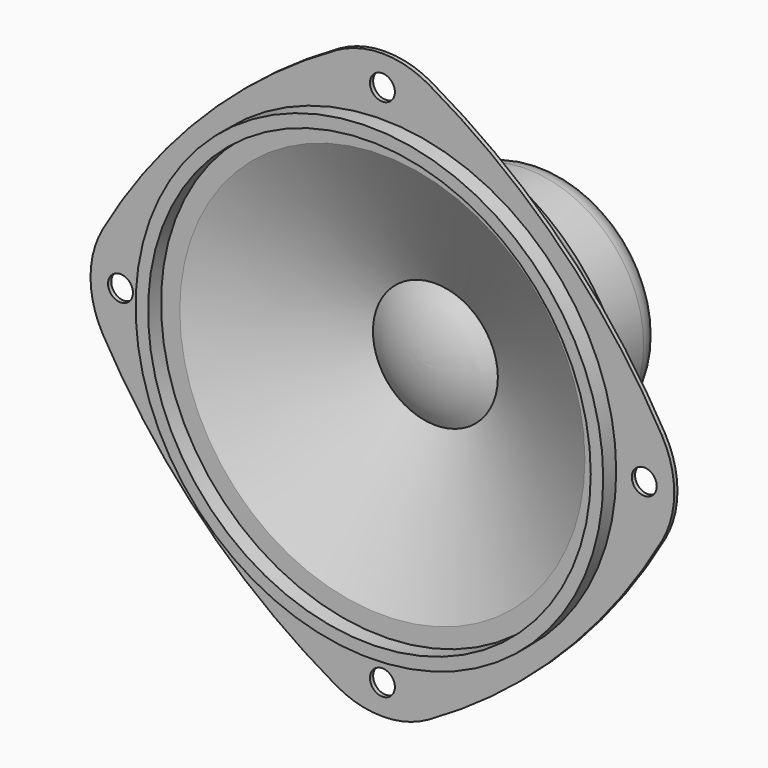
from build123d import *

# Parameters (mm, degrees)
F2_R     = 4
F3_R     = 1
F4_R     = 2
F5_DEPTH = 25


with BuildPart() as f1:
    # F0 (on Top) → F1 (revolve)
    with BuildSketch(Plane.XY):
        with BuildLine():
            Line((37.5, -2.6), (37.5, 0))
            Line((37.5, 0), (46.8, 0))
            Line((46.8, 0), (46.8, 0.65))
            Line((46.8, 0.65), (38.4, 0.65))
            Line((38.4, 0.65), (38.4, 2.3))
            Line((38.4, 2.3), (34.8, 2.3))
            Line((34.8, 2.3), (34.8, 7))
            Line((34.8, 7), (21.576792, 14.108865))
            Line((21.576792, 14.108865), (18.7, 17))
            Line((18.7, 17), (18.7, 33))
            Line((18.7, 33), (0, 33))
            Line((0, 33), (0, 7.885643))
            ThreePointArc((0, 7.885643), (5.193057, 8.584234), (10.016886, 10.630338))
            Line((10.016886, 10.630338), (32.484462, 0))
            Line((32.484462, 0), (35.5, 0))
            Line((35.5, 0), (35.5, -2.6))
            Line((35.5, -2.6), (37.5, -2.6))
        make_face()
    revolve(axis=Axis((0, 27.784977, 0), (0, 1, 0)))

    # F2
    f2_edges = [f1.edges().sort_by_distance(p)[0] for p in [
        (-18.7, 33, 0),
    ]]
    fillet(f2_edges, radius=F2_R)

    # F3
    f3_edges = [f1.edges().sort_by_distance(p)[0] for p in [
        (-34.8, 7, 0),
        (-34.8, 2.3, 0),
    ]]
    fillet(f3_edges, radius=F3_R)

    # F4 (on face) → F5 (cut)
    with BuildSketch(Plane.XZ):
        with BuildLine():
            ThreePointArc((0, -46.8), (33.092597, -33.092597), (46.8, 0))
            ThreePointArc((46.8, 0), (46.300332, -3.839319), (44.834617, -7.422853))
            ThreePointArc((44.834617, -7.422853), (28.647845, -28.647845), (7.422853, -44.834618))
            ThreePointArc((7.422853, -44.834618), (3.839319, -46.300332), (0, -46.8))
        make_face()
        with BuildLine():
            ThreePointArc((-44.834618, -7.422853), (-46.300332, -3.839319), (-46.8, 0))
            ThreePointArc((-46.8, 0), (-33.092597, -33.092597), (0, -46.8))
            ThreePointArc((0, -46.8), (-3.839319, -46.300332), (-7.422853, -44.834618))
            ThreePointArc((-7.422853, -44.834618), (-28.647845, -28.647845), (-44.834618, -7.422853))
        make_face()
        with BuildLine():
            ThreePointArc((-7.422852, 44.834618), (-3.839319, 46.300332), (0, 46.8))
            ThreePointArc((0, 46.8), (-33.092597, 33.092597), (-46.8, 0))
            ThreePointArc((-46.8, 0), (-46.300332, 3.839319), (-44.834618, 7.422853))
            ThreePointArc((-44.834618, 7.422853), (-28.647845, 28.647845), (-7.422852, 44.834618))
        make_face()
        with BuildLine():
            ThreePointArc((0, 46.8), (3.839319, 46.300332), (7.422853, 44.834618))
            ThreePointArc((7.422853, 44.834618), (28.647845, 28.647845), (44.834618, 7.422853))
            ThreePointArc((44.834618, 7.422853), (46.300332, 3.839319), (46.8, 0))
            ThreePointArc((46.8, 0), (33.092597, 33.092597), (0, 46.8))
        make_face()
        with Locations((0, -42)):
            Circle(F4_R)
        with Locations((0, 42)):
            Circle(F4_R)
        with Locations((-42, 0)):
            Circle(F4_R)
        with Locations((42, 0)):
            Circle(F4_R)
    extrude(amount=-F5_DEPTH, mode=Mode.SUBTRACT)


solid = f1.part
